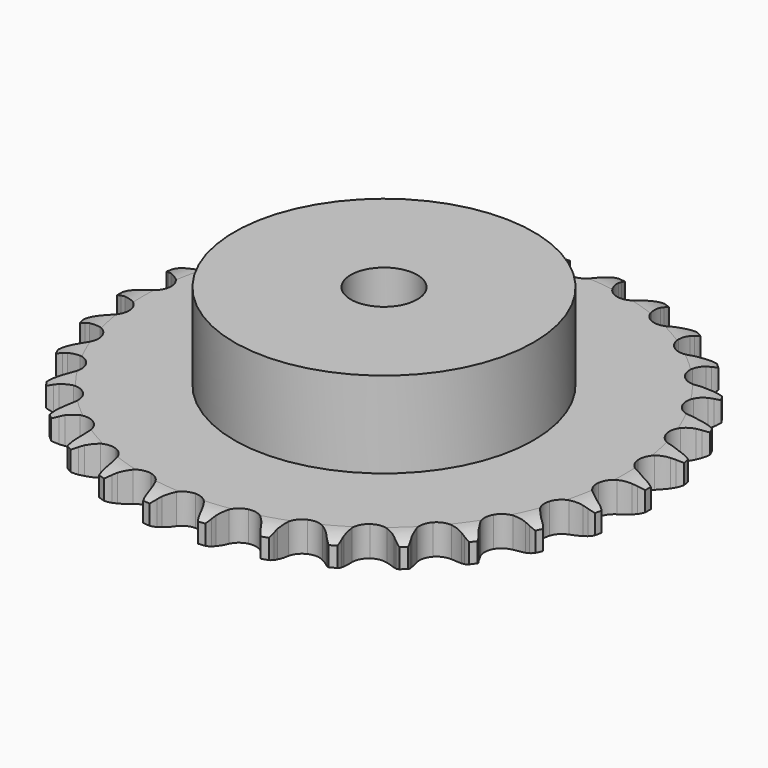
from build123d import *

# Parameters (mm, degrees)
PAD_DEPTH         = 9.1
SKETCH001_R       = 45
PAD001_DEPTH      = 35
SKETCH002_R       = 10
POCKET_DEPTH      = 0.001
POCKET_DEPTH_BACK = 35.001


with BuildPart() as part:
    # Sprocket → Pad (new body)
    with BuildSketch(Plane.XY):
        with BuildLine():
            ThreePointArc((-8.457976, 80.472268), (-7.258124, 79.052161), (-6.405169, 77.400249))
            Line((-6.405169, 77.400249), (-5.909738, 76.100573))
            ThreePointArc((-5.909738, 76.100573), (-5.123685, 74.407167), (-4.107782, 72.840819))
            ThreePointArc((-4.107782, 72.840819), (-2.295018, 71.33316), (0, 70.792755))
            ThreePointArc((0, 70.792755), (2.295018, 71.33316), (4.107782, 72.840819))
            ThreePointArc((4.107782, 72.840819), (5.123685, 74.407167), (5.909738, 76.100573))
            Line((5.909738, 76.100573), (6.405169, 77.400249))
            ThreePointArc((6.405169, 77.400249), (7.258124, 79.052161), (8.457976, 80.472268))
            ThreePointArc((8.457976, 80.472268), (9.336351, 78.833731), (9.827215, 77.040577))
            Line((9.827215, 77.040577), (10.041603, 75.666296))
            ThreePointArc((10.041603, 75.666296), (10.4584, 73.846465), (11.126441, 72.103128))
            ThreePointArc((11.126441, 72.103128), (12.586131, 70.25152), (14.718641, 69.245763))
            ThreePointArc((14.718641, 69.245763), (17.075865, 69.297198), (19.162475, 70.395017))
            Line((19.162475, 70.395017), (21.602794, 73.208889))
            ThreePointArc((21.602794, 73.208889), (21.964891, 73.802919), (22.357618, 74.377158))
            ThreePointArc((22.357618, 74.377158), (23.535385, 75.815633), (25.004274, 76.955243))
            ThreePointArc((25.004274, 76.955243), (25.522784, 75.169888), (25.630104, 73.313863))
            Line((25.630104, 73.313863), (25.554078, 71.925039))
            ThreePointArc((25.554078, 71.925039), (25.583402, 70.058319), (25.874385, 68.214185))
            ThreePointArc((25.874385, 68.214185), (26.917206, 66.099552), (28.794007, 64.672399))
            ThreePointArc((28.794007, 64.672399), (31.110414, 64.232616), (33.379676, 64.872614))
            Line((33.379676, 64.872614), (36.351705, 67.117626))
            ThreePointArc((36.351705, 67.117626), (36.829395, 67.62339), (37.332931, 68.103429))
            ThreePointArc((37.332931, 68.103429), (38.784037, 69.265598), (40.457766, 70.074906))
            ThreePointArc((40.457766, 70.074906), (40.593748, 68.22076), (40.312834, 66.382981))
            Line((40.312834, 66.382981), (39.949716, 65.040313))
            ThreePointArc((39.949716, 65.040313), (39.590287, 63.208289), (39.491494, 61.343954))
            ThreePointArc((39.491494, 61.343954), (40.07187, 59.058716), (41.610937, 57.272542))
            ThreePointArc((41.610937, 57.272542), (43.785288, 56.36076), (46.138024, 56.514967))
            Line((46.138024, 56.514967), (49.511872, 58.093))
            ThreePointArc((49.511872, 58.093), (50.084278, 58.488395), (50.676616, 58.853253))
            ThreePointArc((50.676616, 58.853253), (52.33764, 59.688323), (54.143059, 60.131958))
            ThreePointArc((54.143059, 60.131958), (53.890571, 58.290058), (53.233699, 56.550844))
            Line((53.233699, 56.550844), (52.59936, 55.313013))
            ThreePointArc((52.59936, 55.313013), (51.866887, 53.595752), (51.382635, 51.792698))
            ThreePointArc((51.382635, 51.792698), (51.475201, 49.436732), (52.609269, 47.369599))
            ThreePointArc((52.609269, 47.369599), (54.546536, 46.025669), (56.87992, 45.687345))
            Line((56.87992, 45.687345), (60.508133, 46.529431))
            ThreePointArc((60.508133, 46.529431), (61.150237, 46.797177), (61.805489, 47.030907))
            ThreePointArc((61.805489, 47.030907), (63.603838, 47.502383), (65.46204, 47.560956))
            ThreePointArc((65.46204, 47.560956), (64.832118, 45.811801), (63.827997, 44.247164))
            Line((63.827997, 44.247164), (62.95016, 43.168269))
            ThreePointArc((62.95016, 43.168269), (61.876654, 41.640824), (61.028109, 39.977853))
            ThreePointArc((61.028109, 39.977853), (60.628819, 37.654124), (61.308324, 35.396377))
            ThreePointArc((61.308324, 35.396377), (62.923838, 33.679036), (65.135891, 32.862966))
            Line((65.135891, 32.862966), (68.859898, 32.932303))
            ThreePointArc((68.859898, 32.932303), (69.543638, 33.060697), (70.233166, 33.153085))
            ThreePointArc((70.233166, 33.153085), (72.090242, 33.24036), (73.920016, 32.911312))
            ThreePointArc((73.920016, 32.911312), (72.940189, 31.331348), (71.632705, 30.00967))
            Line((71.632705, 30.00967), (70.549736, 29.136865))
            ThreePointArc((70.549736, 29.136865), (69.182115, 27.865993), (68.006361, 26.415784))
            ThreePointArc((68.006361, 26.415784), (67.132667, 24.225851), (67.327911, 21.876164))
            ThreePointArc((67.327911, 21.876164), (68.551066, 19.860466), (70.54511, 18.602318))
            Line((70.54511, 18.602318), (74.202155, 17.895876))
            ThreePointArc((74.202155, 17.895876), (74.897648, 17.879306), (75.591317, 17.826314))
            ThreePointArc((75.591317, 17.826314), (77.425957, 17.525575), (79.147333, 16.823285))
            ThreePointArc((79.147333, 16.823285), (77.860425, 15.481565), (76.30672, 14.46061))
            Line((76.30672, 14.46061), (75.06595, 13.832039))
            ThreePointArc((75.06595, 13.832039), (73.463985, 12.873283), (72.012409, 11.699218))
            ThreePointArc((72.012409, 11.699218), (70.702494, 9.738792), (70.404944, 7.399858))
            ThreePointArc((70.404944, 7.399858), (71.182284, 5.173899), (72.87117, 3.52866))
            Line((72.87117, 3.52866), (76.301421, 2.077313))
            ThreePointArc((76.301421, 2.077313), (76.978271, 1.916504), (77.645765, 1.720448))
            ThreePointArc((77.645765, 1.720448), (79.377786, 1.044837), (80.915531, 0))
            ThreePointArc((80.915531, 0), (79.377786, -1.044837), (77.645765, -1.720448))
            Line((77.645765, -1.720448), (76.301421, -2.077313))
            ThreePointArc((76.301421, -2.077313), (74.535127, -2.68205), (72.87117, -3.52866))
            ThreePointArc((72.87117, -3.52866), (71.182284, -5.173899), (70.404944, -7.399858))
            ThreePointArc((70.404944, -7.399858), (70.702494, -9.738792), (72.012409, -11.699218))
            Line((72.012409, -11.699218), (75.06595, -13.832039))
            ThreePointArc((75.06595, -13.832039), (75.694575, -14.130059), (76.30672, -14.46061))
            ThreePointArc((76.30672, -14.46061), (77.860425, -15.481565), (79.147333, -16.823285))
            ThreePointArc((79.147333, -16.823285), (77.425957, -17.525575), (75.591317, -17.826314))
            Line((75.591317, -17.826314), (74.202155, -17.895876))
            ThreePointArc((74.202155, -17.895876), (72.348726, -18.120165), (70.54511, -18.602318))
            ThreePointArc((70.54511, -18.602318), (68.551066, -19.860466), (67.327911, -21.876164))
            ThreePointArc((67.327911, -21.876164), (67.132667, -24.225851), (68.006361, -26.415784))
            Line((68.006361, -26.415784), (70.549736, -29.136865))
            ThreePointArc((70.549736, -29.136865), (71.102662, -29.55907), (71.632705, -30.00967))
            ThreePointArc((71.632705, -30.00967), (72.940189, -31.331348), (73.920016, -32.911312))
            ThreePointArc((73.920016, -32.911312), (72.090242, -33.24036), (70.233166, -33.153085))
            Line((70.233166, -33.153085), (68.859898, -32.932303))
            ThreePointArc((68.859898, -32.932303), (67.000339, -32.766342), (65.135891, -32.862966))
            ThreePointArc((65.135891, -32.862966), (62.923838, -33.679036), (61.308324, -35.396377))
            ThreePointArc((61.308324, -35.396377), (60.628819, -37.654124), (61.028109, -39.977853))
            Line((61.028109, -39.977853), (62.95016, -43.168269))
            ThreePointArc((62.95016, -43.168269), (63.403222, -43.696209), (63.827997, -44.247164))
            ThreePointArc((63.827997, -44.247164), (64.832118, -45.811801), (65.46204, -47.560956))
            ThreePointArc((65.46204, -47.560956), (63.603838, -47.502383), (61.805489, -47.030907))
            Line((61.805489, -47.030907), (60.508133, -46.529431))
            ThreePointArc((60.508133, -46.529431), (58.723715, -45.980473), (56.87992, -45.687345))
            ThreePointArc((56.87992, -45.687345), (54.546536, -46.025669), (52.609269, -47.369599))
            ThreePointArc((52.609269, -47.369599), (51.475201, -49.436732), (51.382635, -51.792698))
            Line((51.382635, -51.792698), (52.59936, -55.313013))
            ThreePointArc((52.59936, -55.313013), (52.932757, -55.923613), (53.233699, -56.550844))
            ThreePointArc((53.233699, -56.550844), (53.890571, -58.290058), (54.143059, -60.131958))
            ThreePointArc((54.143059, -60.131958), (52.33764, -59.688323), (50.676616, -58.853253))
            Line((50.676616, -58.853253), (49.511872, -58.093))
            ThreePointArc((49.511872, -58.093), (47.880583, -57.185036), (46.138024, -56.514967))
            ThreePointArc((46.138024, -56.514967), (43.785288, -56.36076), (41.610937, -57.272542))
            ThreePointArc((41.610937, -57.272542), (40.07187, -59.058716), (39.491494, -61.343954))
            Line((39.491494, -61.343954), (39.949716, -65.040313))
            ThreePointArc((39.949716, -65.040313), (40.148877, -65.706887), (40.312834, -66.382981))
            ThreePointArc((40.312834, -66.382981), (40.593748, -68.22076), (40.457766, -70.074906))
            ThreePointArc((40.457766, -70.074906), (38.784037, -69.265598), (37.332931, -68.103429))
            Line((37.332931, -68.103429), (36.351705, -67.117626))
            ThreePointArc((36.351705, -67.117626), (34.94484, -65.890339), (33.379676, -64.872614))
            ThreePointArc((33.379676, -64.872614), (31.110414, -64.232616), (28.794007, -64.672399))
            ThreePointArc((28.794007, -64.672399), (26.917206, -66.099552), (25.874385, -68.214185))
            Line((25.874385, -68.214185), (25.554078, -71.925039))
            ThreePointArc((25.554078, -71.925039), (25.610297, -72.618454), (25.630104, -73.313863))
            ThreePointArc((25.630104, -73.313863), (25.522784, -75.169888), (25.004274, -76.955243))
            ThreePointArc((25.004274, -76.955243), (23.535385, -75.815633), (22.357618, -74.377158))
            Line((22.357618, -74.377158), (21.602794, -73.208889))
            ThreePointArc((21.602794, -73.208889), (20.48184, -71.715917), (19.162475, -70.395017))
            ThreePointArc((19.162475, -70.395017), (17.075865, -69.297198), (14.718641, -69.245763))
            ThreePointArc((14.718641, -69.245763), (12.586131, -70.25152), (11.126441, -72.103128))
            Line((11.126441, -72.103128), (10.041603, -75.666296))
            ThreePointArc((10.041603, -75.666296), (9.952425, -76.356247), (9.827215, -77.040577))
            ThreePointArc((9.827215, -77.040577), (9.336351, -78.833731), (8.457976, -80.472268))
            ThreePointArc((8.457976, -80.472268), (7.258124, -79.052161), (6.405169, -77.400249))
            Line((6.405169, -77.400249), (5.909738, -76.100573))
            ThreePointArc((5.909738, -76.100573), (5.123685, -74.407167), (4.107782, -72.840819))
            ThreePointArc((4.107782, -72.840819), (2.295018, -71.33316), (0, -70.792755))
            ThreePointArc((0, -70.792755), (-2.295018, -71.33316), (-4.107782, -72.840819))
            Line((-4.107782, -72.840819), (-5.909738, -76.100573))
            ThreePointArc((-5.909738, -76.100573), (-6.140415, -76.756906), (-6.405169, -77.400249))
            ThreePointArc((-6.405169, -77.400249), (-7.258124, -79.052161), (-8.457976, -80.472268))
            ThreePointArc((-8.457976, -80.472268), (-9.336351, -78.833731), (-9.827215, -77.040577))
            Line((-9.827215, -77.040577), (-10.041603, -75.666296))
            ThreePointArc((-10.041603, -75.666296), (-10.4584, -73.846465), (-11.126441, -72.103128))
            ThreePointArc((-11.126441, -72.103128), (-12.586131, -70.25152), (-14.718641, -69.245763))
            ThreePointArc((-14.718641, -69.245763), (-17.075865, -69.297198), (-19.162475, -70.395017))
            Line((-19.162475, -70.395017), (-21.602794, -73.208889))
            ThreePointArc((-21.602794, -73.208889), (-21.964891, -73.802919), (-22.357618, -74.377158))
            ThreePointArc((-22.357618, -74.377158), (-23.535385, -75.815633), (-25.004274, -76.955243))
            ThreePointArc((-25.004274, -76.955243), (-25.522784, -75.169888), (-25.630104, -73.313863))
            Line((-25.630104, -73.313863), (-25.554078, -71.925039))
            ThreePointArc((-25.554078, -71.925039), (-25.583402, -70.058319), (-25.874385, -68.214185))
            ThreePointArc((-25.874385, -68.214185), (-26.917206, -66.099552), (-28.794007, -64.672399))
            ThreePointArc((-28.794007, -64.672399), (-31.110414, -64.232616), (-33.379676, -64.872614))
            Line((-33.379676, -64.872614), (-36.351705, -67.117626))
            ThreePointArc((-36.351705, -67.117626), (-36.829395, -67.62339), (-37.332931, -68.103429))
            ThreePointArc((-37.332931, -68.103429), (-38.784037, -69.265598), (-40.457766, -70.074906))
            ThreePointArc((-40.457766, -70.074906), (-40.593748, -68.22076), (-40.312834, -66.382981))
            Line((-40.312834, -66.382981), (-39.949716, -65.040313))
            ThreePointArc((-39.949716, -65.040313), (-39.590287, -63.208289), (-39.491494, -61.343954))
            ThreePointArc((-39.491494, -61.343954), (-40.07187, -59.058716), (-41.610937, -57.272542))
            ThreePointArc((-41.610937, -57.272542), (-43.785288, -56.36076), (-46.138024, -56.514967))
            Line((-46.138024, -56.514967), (-49.511872, -58.093))
            ThreePointArc((-49.511872, -58.093), (-50.084278, -58.488395), (-50.676616, -58.853253))
            ThreePointArc((-50.676616, -58.853253), (-52.33764, -59.688323), (-54.143059, -60.131958))
            ThreePointArc((-54.143059, -60.131958), (-53.890571, -58.290058), (-53.233699, -56.550844))
            Line((-53.233699, -56.550844), (-52.59936, -55.313013))
            ThreePointArc((-52.59936, -55.313013), (-51.866887, -53.595752), (-51.382635, -51.792698))
            ThreePointArc((-51.382635, -51.792698), (-51.475201, -49.436732), (-52.609269, -47.369599))
            ThreePointArc((-52.609269, -47.369599), (-54.546536, -46.025669), (-56.87992, -45.687345))
            Line((-56.87992, -45.687345), (-60.508133, -46.529431))
            ThreePointArc((-60.508133, -46.529431), (-61.150237, -46.797177), (-61.805489, -47.030907))
            ThreePointArc((-61.805489, -47.030907), (-63.603838, -47.502383), (-65.46204, -47.560956))
            ThreePointArc((-65.46204, -47.560956), (-64.832118, -45.811801), (-63.827997, -44.247164))
            Line((-63.827997, -44.247164), (-62.95016, -43.168269))
            ThreePointArc((-62.95016, -43.168269), (-61.876654, -41.640824), (-61.028109, -39.977853))
            ThreePointArc((-61.028109, -39.977853), (-60.628819, -37.654124), (-61.308324, -35.396377))
            ThreePointArc((-61.308324, -35.396377), (-62.923838, -33.679036), (-65.135891, -32.862966))
            Line((-65.135891, -32.862966), (-68.859898, -32.932303))
            ThreePointArc((-68.859898, -32.932303), (-69.543638, -33.060697), (-70.233166, -33.153085))
            ThreePointArc((-70.233166, -33.153085), (-72.090242, -33.24036), (-73.920016, -32.911312))
            ThreePointArc((-73.920016, -32.911312), (-72.940189, -31.331348), (-71.632705, -30.00967))
            Line((-71.632705, -30.00967), (-70.549736, -29.136865))
            ThreePointArc((-70.549736, -29.136865), (-69.182115, -27.865993), (-68.006361, -26.415784))
            ThreePointArc((-68.006361, -26.415784), (-67.132667, -24.225851), (-67.327911, -21.876164))
            ThreePointArc((-67.327911, -21.876164), (-68.551066, -19.860466), (-70.54511, -18.602318))
            Line((-70.54511, -18.602318), (-74.202155, -17.895876))
            ThreePointArc((-74.202155, -17.895876), (-74.897648, -17.879306), (-75.591317, -17.826314))
            ThreePointArc((-75.591317, -17.826314), (-77.425957, -17.525575), (-79.147333, -16.823285))
            ThreePointArc((-79.147333, -16.823285), (-77.860425, -15.481565), (-76.30672, -14.46061))
            Line((-76.30672, -14.46061), (-75.06595, -13.832039))
            ThreePointArc((-75.06595, -13.832039), (-73.463985, -12.873283), (-72.012409, -11.699218))
            ThreePointArc((-72.012409, -11.699218), (-70.702494, -9.738792), (-70.404944, -7.399858))
            ThreePointArc((-70.404944, -7.399858), (-71.182284, -5.173899), (-72.87117, -3.52866))
            Line((-72.87117, -3.52866), (-76.301421, -2.077313))
            ThreePointArc((-76.301421, -2.077313), (-76.978271, -1.916504), (-77.645765, -1.720448))
            ThreePointArc((-77.645765, -1.720448), (-79.377786, -1.044837), (-80.915531, 0))
            ThreePointArc((-80.915531, 0), (-79.377786, 1.044837), (-77.645765, 1.720448))
            Line((-77.645765, 1.720448), (-76.301421, 2.077313))
            ThreePointArc((-76.301421, 2.077313), (-74.535127, 2.68205), (-72.87117, 3.52866))
            ThreePointArc((-72.87117, 3.52866), (-71.182284, 5.173899), (-70.404944, 7.399858))
            ThreePointArc((-70.404944, 7.399858), (-70.702494, 9.738792), (-72.012409, 11.699218))
            Line((-72.012409, 11.699218), (-75.06595, 13.832039))
            ThreePointArc((-75.06595, 13.832039), (-75.694575, 14.130059), (-76.30672, 14.46061))
            ThreePointArc((-76.30672, 14.46061), (-77.860425, 15.481565), (-79.147333, 16.823285))
            ThreePointArc((-79.147333, 16.823285), (-77.425957, 17.525575), (-75.591317, 17.826314))
            Line((-75.591317, 17.826314), (-74.202155, 17.895876))
            ThreePointArc((-74.202155, 17.895876), (-72.348726, 18.120165), (-70.54511, 18.602318))
            ThreePointArc((-70.54511, 18.602318), (-68.551066, 19.860466), (-67.327911, 21.876164))
            ThreePointArc((-67.327911, 21.876164), (-67.132667, 24.225851), (-68.006361, 26.415784))
            Line((-68.006361, 26.415784), (-70.549736, 29.136865))
            ThreePointArc((-70.549736, 29.136865), (-71.102662, 29.55907), (-71.632705, 30.00967))
            ThreePointArc((-71.632705, 30.00967), (-72.940189, 31.331348), (-73.920016, 32.911312))
            ThreePointArc((-73.920016, 32.911312), (-72.090242, 33.24036), (-70.233166, 33.153085))
            Line((-70.233166, 33.153085), (-68.859898, 32.932303))
            ThreePointArc((-68.859898, 32.932303), (-67.000339, 32.766342), (-65.135891, 32.862966))
            ThreePointArc((-65.135891, 32.862966), (-62.923838, 33.679036), (-61.308324, 35.396377))
            ThreePointArc((-61.308324, 35.396377), (-60.628819, 37.654124), (-61.028109, 39.977853))
            Line((-61.028109, 39.977853), (-62.95016, 43.168269))
            ThreePointArc((-62.95016, 43.168269), (-63.403222, 43.696209), (-63.827997, 44.247164))
            ThreePointArc((-63.827997, 44.247164), (-64.832118, 45.811801), (-65.46204, 47.560956))
            ThreePointArc((-65.46204, 47.560956), (-63.603838, 47.502383), (-61.805489, 47.030907))
            Line((-61.805489, 47.030907), (-60.508133, 46.529431))
            ThreePointArc((-60.508133, 46.529431), (-58.723715, 45.980473), (-56.87992, 45.687345))
            ThreePointArc((-56.87992, 45.687345), (-54.546536, 46.025669), (-52.609269, 47.369599))
            ThreePointArc((-52.609269, 47.369599), (-51.475201, 49.436732), (-51.382635, 51.792698))
            Line((-51.382635, 51.792698), (-52.59936, 55.313013))
            ThreePointArc((-52.59936, 55.313013), (-52.932757, 55.923613), (-53.233699, 56.550844))
            ThreePointArc((-53.233699, 56.550844), (-53.890571, 58.290058), (-54.143059, 60.131958))
            ThreePointArc((-54.143059, 60.131958), (-52.33764, 59.688323), (-50.676616, 58.853253))
            Line((-50.676616, 58.853253), (-49.511872, 58.093))
            ThreePointArc((-49.511872, 58.093), (-47.880583, 57.185036), (-46.138024, 56.514967))
            ThreePointArc((-46.138024, 56.514967), (-43.785288, 56.36076), (-41.610937, 57.272542))
            ThreePointArc((-41.610937, 57.272542), (-40.07187, 59.058716), (-39.491494, 61.343954))
            Line((-39.491494, 61.343954), (-39.949716, 65.040313))
            ThreePointArc((-39.949716, 65.040313), (-40.148877, 65.706887), (-40.312834, 66.382981))
            ThreePointArc((-40.312834, 66.382981), (-40.593748, 68.22076), (-40.457766, 70.074906))
            ThreePointArc((-40.457766, 70.074906), (-38.784037, 69.265598), (-37.332931, 68.103429))
            Line((-37.332931, 68.103429), (-36.351705, 67.117626))
            ThreePointArc((-36.351705, 67.117626), (-34.94484, 65.890339), (-33.379676, 64.872614))
            ThreePointArc((-33.379676, 64.872614), (-31.110414, 64.232616), (-28.794007, 64.672399))
            ThreePointArc((-28.794007, 64.672399), (-26.917206, 66.099552), (-25.874385, 68.214185))
            Line((-25.874385, 68.214185), (-25.554078, 71.925039))
            ThreePointArc((-25.554078, 71.925039), (-25.610297, 72.618454), (-25.630104, 73.313863))
            ThreePointArc((-25.630104, 73.313863), (-25.522784, 75.169888), (-25.004274, 76.955243))
            ThreePointArc((-25.004274, 76.955243), (-23.535385, 75.815633), (-22.357618, 74.377158))
            Line((-22.357618, 74.377158), (-21.602794, 73.208889))
            ThreePointArc((-21.602794, 73.208889), (-20.48184, 71.715917), (-19.162475, 70.395017))
            ThreePointArc((-19.162475, 70.395017), (-17.075865, 69.297198), (-14.718641, 69.245763))
            ThreePointArc((-14.718641, 69.245763), (-12.586131, 70.25152), (-11.126441, 72.103128))
            Line((-11.126441, 72.103128), (-10.041603, 75.666296))
            ThreePointArc((-10.041603, 75.666296), (-9.952425, 76.356247), (-9.827215, 77.040577))
            ThreePointArc((-9.827215, 77.040577), (-9.336351, 78.833731), (-8.457976, 80.472268))
        make_face()
    extrude(amount=PAD_DEPTH)

    # Sketch → Groove (revolve, cut)
    with BuildSketch(Plane.XZ):
        with BuildLine():
            Line((72.425762, 0), (79.4, 0))
            Line((86.374238, 0), (79.4, 0))
            Line((86.374238, 9.1), (86.374238, 0))
            Line((79.4, 9.1), (86.374238, 9.1))
            Line((72.425762, 9.1), (79.4, 9.1))
            ThreePointArc((79.4, 7.5), (76.00347, 8.694871), (72.425762, 9.1))
            Line((79.4, 1.6), (79.4, 7.5))
            ThreePointArc((72.425762, 0), (76.00347, 0.405129), (79.4, 1.6))
        make_face()
    revolve(axis=Axis((0, 0, 0), (0, 0, 1)), mode=Mode.SUBTRACT)

    # Sketch001 → Pad001 (join)
    with BuildSketch(Plane.XY):
        Circle(SKETCH001_R)
    extrude(amount=PAD001_DEPTH)

    # Sketch002 → Pocket (cut, two sides)
    with BuildSketch(Plane.XY) as pocket_sk:
        Circle(SKETCH002_R)
    extrude(amount=-POCKET_DEPTH, mode=Mode.SUBTRACT)
    extrude(pocket_sk.sketch, amount=POCKET_DEPTH_BACK, mode=Mode.SUBTRACT)


solid = part.part
